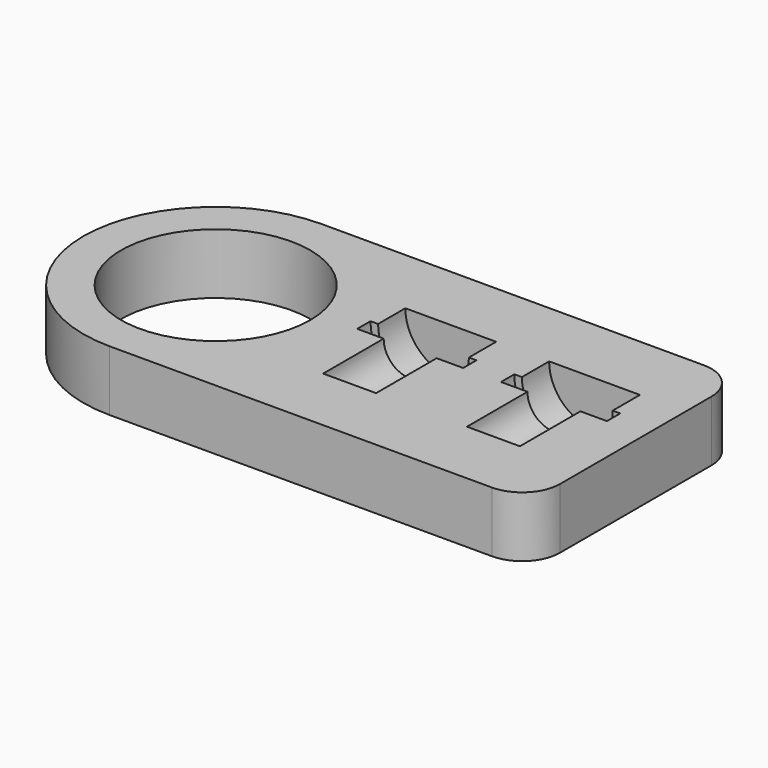
from build123d import *

# Parameters (mm, degrees)
F0_R     = 12.5
F1_DEPTH = 8


with BuildPart() as f1:
    # F0 (on Top) → F1 (new body)
    with BuildSketch(Plane.XY):
        with BuildLine():
            ThreePointArc((0, 17.5), (5.125631, 5.125631), (17.5, 0))
            Line((17.5, 0), (68, 0))
            ThreePointArc((68, 0), (71.535534, 1.464466), (73, 5))
            Line((73, 5), (73, 30))
            ThreePointArc((73, 30), (71.535534, 33.535534), (68, 35))
            Line((68, 35), (17.5, 35))
            ThreePointArc((17.5, 35), (5.125631, 29.874369), (0, 17.5))
        make_face()
        with Locations((17.5, 17.5)):
            Circle(F0_R, mode=Mode.SUBTRACT)
    extrude(amount=F1_DEPTH)

    # F2 (on face) → F3 (revolve, cut)
    with BuildSketch(Plane.XY.offset(8)):
        Polygon((42, 19), (42, 9), (45.5, 9), (45.5, 19), (49, 19), (49, 21.2), (48, 21.2), (48, 25.7), (42, 25.7), (42, 21.2), align=None)
    revolve(axis=Axis((42, 14, 8), (0, 1, 0)), mode=Mode.SUBTRACT)

    # F2 (on face) → F4 (revolve, cut)
    with BuildSketch(Plane.XY.offset(8)):
        Polygon((61, 19), (61, 9), (64.5, 9), (64.5, 19), (68, 19), (68, 21.2), (67, 21.2), (67, 25.7), (61, 25.7), (61, 21.2), align=None)
    revolve(axis=Axis((61, 14, 8), (0, 1, 0)), mode=Mode.SUBTRACT)


solid = f1.part
